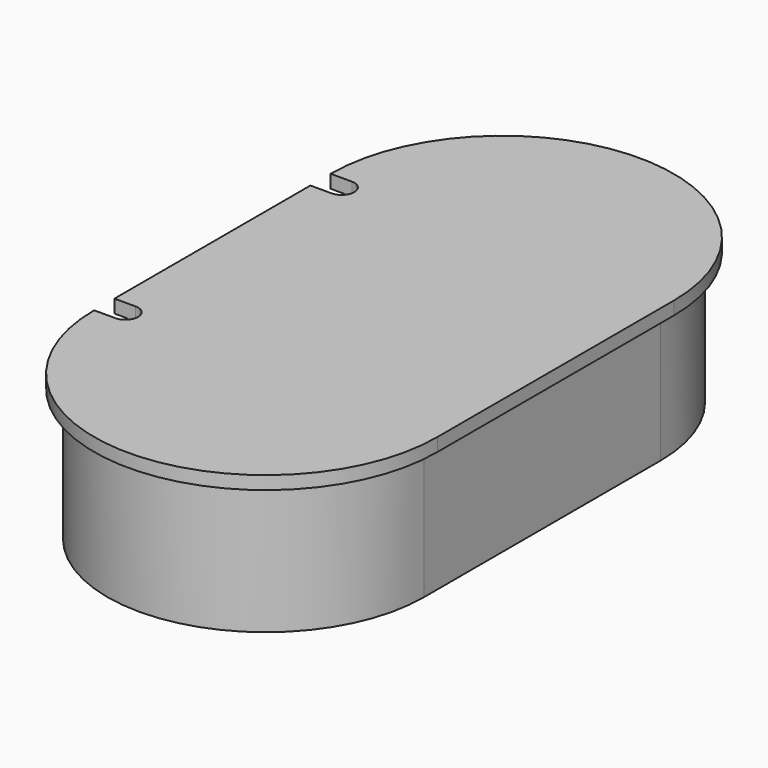
from build123d import *

# Parameters (mm, degrees)
F1_DEPTH = 25
F3_DEPTH = 2.5
F5_DEPTH = 5.2


with BuildPart() as f1:
    # F0 (on Top) → F1 (new body)
    with BuildSketch(Plane.XY):
        with BuildLine():
            Line((-1, 0), (0, 0))
            Line((0, 0), (0, 56))
            ThreePointArc((0, 56), (-30, 86), (-60, 56))
            Line((-60, 56), (-60, 0))
            Line((-60, 0), (-59, 0))
            Line((-59, 0), (-59, 56))
            ThreePointArc((-59, 56), (-30, 85), (-1, 56))
            Line((-1, 56), (-1, 0))
        make_face()
        with BuildLine():
            ThreePointArc((-60, 0), (-30, -30), (0, 0))
            Line((0, 0), (-1, 0))
            ThreePointArc((-1, 0), (-30, -29), (-59, 0))
            Line((-59, 0), (-60, 0))
        make_face()
    extrude(amount=F1_DEPTH)

    # F2 (on face) → F3 (join)
    with BuildSketch(Plane.XY.offset(25)):
        with BuildLine():
            ThreePointArc((2.5, 56), (-30, 88.5), (-62.5, 56))
            Line((-62.5, 56), (-62.5, 0))
            ThreePointArc((-62.5, 0), (-30, -32.5), (2.5, 0))
            Line((2.5, 0), (2.5, 56))
        make_face()
        with BuildLine():
            Line((-60, 0), (-60, 56))
            ThreePointArc((-60, 56), (-30, 86), (0, 56))
            Line((0, 56), (0, 0))
            ThreePointArc((0, 0), (-30, -30), (-60, 0))
        make_face(mode=Mode.SUBTRACT)
        with BuildLine():
            ThreePointArc((0, 56), (-30, 86), (-60, 56))
            Line((-60, 56), (-60, 0))
            ThreePointArc((-60, 0), (-30, -30), (0, 0))
            Line((0, 0), (0, 56))
        make_face()
        with BuildLine():
            ThreePointArc((-1, 0), (-30, -29), (-59, 0))
            Line((-59, 0), (-59, 56))
            ThreePointArc((-59, 56), (-30, 85), (-1, 56))
            Line((-1, 56), (-1, 0))
        make_face(mode=Mode.SUBTRACT)
        with BuildLine():
            Line((-59, 56), (-59, 0))
            ThreePointArc((-59, 0), (-30, -29), (-1, 0))
            Line((-1, 0), (-1, 56))
            ThreePointArc((-1, 56), (-30, 85), (-59, 56))
        make_face()
    extrude(amount=F3_DEPTH)

    # F4 (on face) → F5 (cut)
    with BuildSketch(Plane.XY.offset(27.5)):
        with BuildLine():
            Line((-58.5, 56), (-62.5, 56))
            Line((-62.5, 56), (-62.5, 51.2))
            Line((-62.5, 51.2), (-58.5, 51.2))
            ThreePointArc((-58.5, 51.2), (-56.1, 53.6), (-58.5, 56))
        make_face()
        with BuildLine():
            Line((-58.5, 4.8), (-62.5, 4.8))
            Line((-62.5, 4.8), (-62.5, 0))
            Line((-62.5, 0), (-58.5, 0))
            ThreePointArc((-58.5, 0), (-56.1, 2.4), (-58.5, 4.8))
        make_face()
    extrude(amount=-F5_DEPTH, mode=Mode.SUBTRACT)


solid = f1.part
